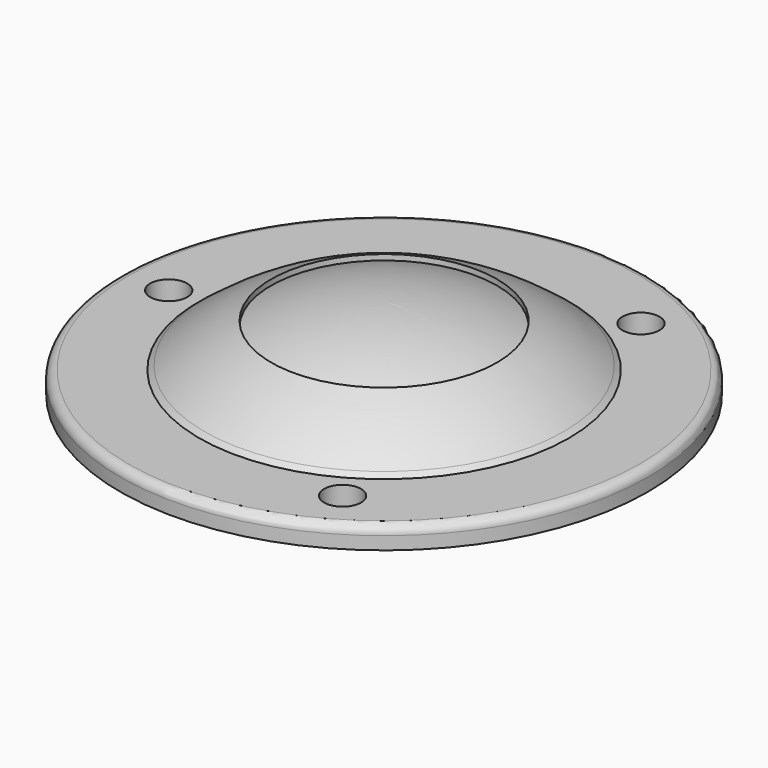
from build123d import *

# Parameters (mm, degrees)
F2_R     = 2.7305
F3_DEPTH = 13.6194265117
F4_DEPTH = 25.4


with BuildPart() as f1:
    # F0 (on Front) → F1 (revolve)
    with BuildSketch(Plane.XZ):
        with BuildLine():
            ThreePointArc((21.868588719, 4.7625), (24.0930517273, 3.2466382577), (26.2128, 1.5875))
            Line((26.2128, 1.5875), (38.9128, 1.5875))
            Line((38.9128, 1.5875), (38.9128, 3.4925))
            ThreePointArc((38.9128, 3.4925), (38.5408256121, 4.3905256121), (37.6428, 4.7625))
            Line((37.6428, 4.7625), (27.7154297025, 4.7625))
            Line((27.7154297025, 4.7625), (27.2611127768, 4.7625))
            Line((27.2611127768, 4.7625), (26.4942537571, 5.3625985537))
            ThreePointArc((26.4942537571, 5.3625985537), (21.7661881559, 8.5738487973), (16.6495382552, 11.1207343954))
            Line((16.6495382552, 11.1207343954), (16.6495382552, 10.294031292))
            ThreePointArc((16.6495382552, 10.294031292), (8.4957570091, 12.8122544899), (0, 13.6170585205))
            Line((0, 13.6170585205), (0, 11.1125))
            ThreePointArc((0, 11.1125), (6.0801608107, 10.6572661266), (12.0247445378, 9.3017154354))
            ThreePointArc((12.0247445378, 9.3017154354), (14.6178672941, 8.4061666851), (17.145, 7.3385087434))
            Line((17.145, 7.3385087434), (17.145, -0.2814912566))
            Line((17.145, -0.2814912566), (18.5871645808, -0.2814912566))
            Line((18.5871645808, -0.2814912566), (18.587393978, 0))
            Line((18.587393978, 0), (18.5928, 6.6336822056))
            ThreePointArc((18.5928, 6.6336822056), (20.2523165336, 5.7359440035), (21.868588719, 4.7625))
        make_face()
    revolve(axis=Axis((0, 0, 12.3647792603), (0, 0, -1)))

    # F2 (on Top) → F3 (cut, through all)
    with BuildSketch(Plane.XY):
        with Locations((-31.75, 0)):
            Circle(F2_R)
        with Locations((15.875, -27.4963065702)):
            Circle(F2_R)
        with Locations((15.875, 27.4963065702)):
            Circle(F2_R)
    extrude(amount=F3_DEPTH, mode=Mode.SUBTRACT)

    # F2 (on Top) → F4 (cut)
    with BuildSketch(Plane.XY):
        with Locations((-31.75, 0)):
            Circle(F2_R)
        with Locations((15.875, -27.4963065702)):
            Circle(F2_R)
        with Locations((15.875, 27.4963065702)):
            Circle(F2_R)
    extrude(amount=F4_DEPTH, mode=Mode.SUBTRACT)


solid = f1.part
